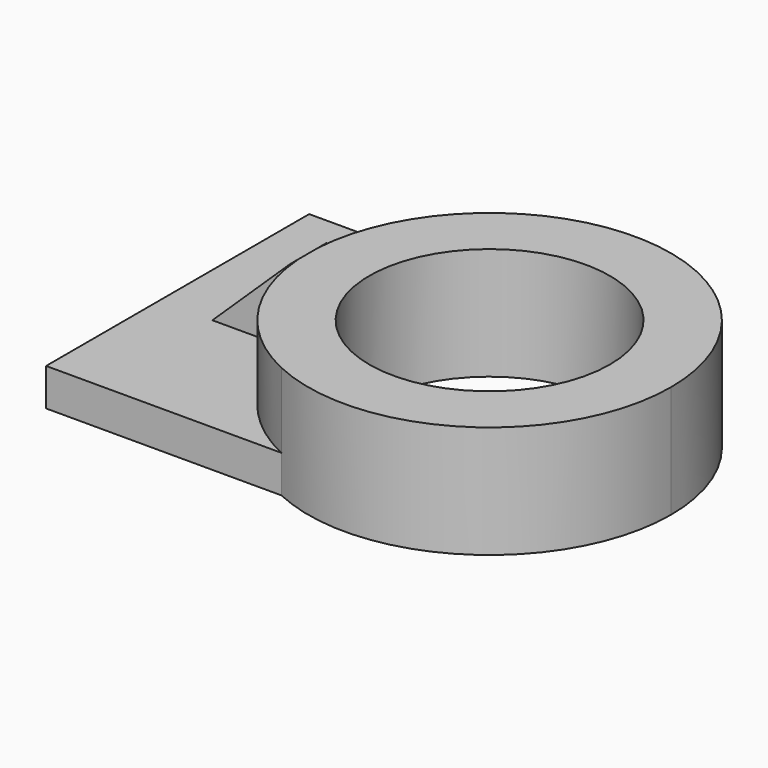
from build123d import *

# Parameters (mm, degrees)
F1_DEPTH = 12.7
F0_R     = 40.785869
F2_DEPTH = 38.1
F4_DEPTH = 25.4
F6_DEPTH = 69.326828


with BuildPart() as f1:
    # F0 (on Top) → F1 (new body)
    with BuildSketch(Plane.XY):
        with BuildLine():
            Line((-0.29745, 55.766355), (-80.107197, 55.766355))
            Line((-80.107197, 55.766355), (-80.107197, -55.766355))
            Line((-80.107197, -55.766355), (-0.29745, -55.766355))
            ThreePointArc((-0.29745, -55.766355), (-35.825811, 0), (-0.29745, 55.766355))
        make_face()
    extrude(amount=F1_DEPTH)

    # F0 (on Top) → F2 (join)
    with BuildSketch(Plane.XY):
        with BuildLine():
            ThreePointArc((87.235052, 0), (58.765741, 51.893702), (-0.29745, 55.766355))
            ThreePointArc((-0.29745, 55.766355), (-35.825811, 0), (-0.29745, -55.766355))
            ThreePointArc((-0.29745, -55.766355), (58.765741, -51.893702), (87.235052, 0))
        make_face()
        with Locations((25.70462, 0)):
            Circle(F0_R, mode=Mode.SUBTRACT)
    extrude(amount=F2_DEPTH)

    # F3 (on face) → F4 (join)
    with BuildSketch(Plane.XY.offset(12.7)):
        with BuildLine():
            Line((-35.681184, 7.795396), (-62.072869, 7.795396))
            Line((-62.072869, 7.795396), (-62.072869, -7.795396))
            Line((-62.072869, -7.795396), (-35.681184, -7.795396))
            Line((-35.681184, -7.795396), (-35.681184, -4.216278))
            ThreePointArc((-35.681184, -4.216278), (-35.825811, 0), (-35.681184, 4.216278))
            Line((-35.681184, 4.216278), (-35.681184, 7.795396))
        make_face()
    extrude(amount=F4_DEPTH)

    # F5 (on face) → F6 (cut, through all)
    with BuildSketch(Plane.XZ.offset(7.795396)):
        Polygon((-62.072869, 38.1), (-62.072869, 12.7), (-35.681184, 38.1), align=None)
    extrude(amount=-F6_DEPTH, mode=Mode.SUBTRACT)


solid = f1.part
